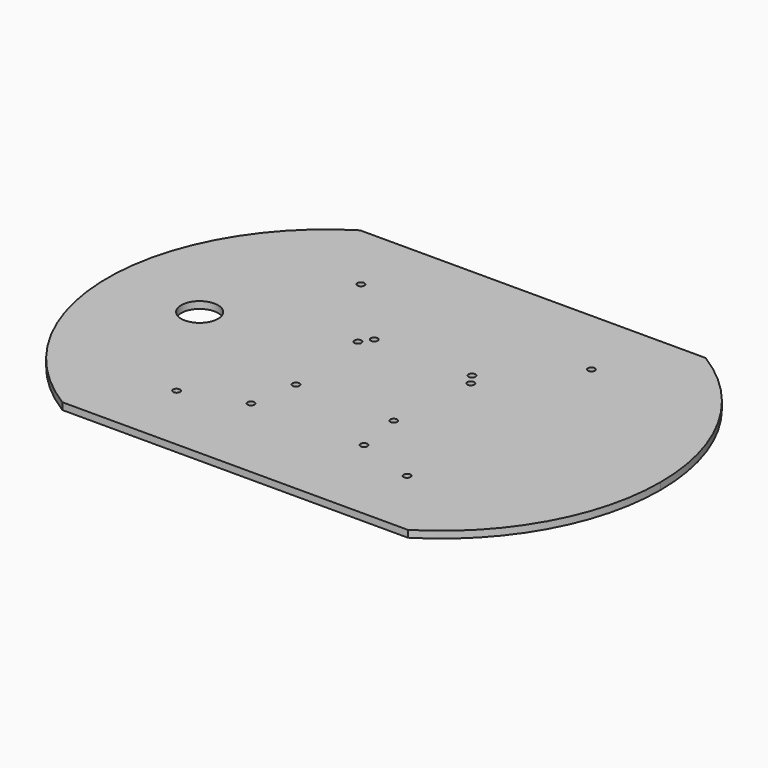
from build123d import *

# Parameters (mm, degrees)
F1_DEPTH = 3
F3_D     = 3
F5_D     = 3
F7_D     = 3
F9_D     = 16


with BuildPart() as f1:
    # F0 (on Top) → F1 (new body)
    with BuildSketch(Plane.XY):
        with BuildLine():
            Line((-25, 80.777472107), (-75, 80.777472107))
            ThreePointArc((-75, 80.777472107), (-120, 0), (-75, -80.777472107))
            Line((-75, -80.777472107), (-25, -80.777472107))
            ThreePointArc((-25, -80.777472107), (-70, 0), (-25, 80.777472107))
        make_face()
        with BuildLine():
            Line((25, 80.777472107), (-25, 80.777472107))
            ThreePointArc((-25, 80.777472107), (-70, 0), (-25, -80.777472107))
            Line((-25, -80.777472107), (25, -80.777472107))
            ThreePointArc((25, -80.777472107), (57.9909633635, -46.2331050223), (70, 0))
            ThreePointArc((70, 0), (57.9909633635, 46.2331050223), (25, 80.777472107))
        make_face()
        with BuildLine():
            Line((75, 80.777472107), (25, 80.777472107))
            ThreePointArc((25, 80.777472107), (57.9909633635, 46.2331050223), (70, 0))
            ThreePointArc((70, 0), (57.9909633635, -46.2331050223), (25, -80.777472107))
            Line((25, -80.777472107), (75, -80.777472107))
            ThreePointArc((75, -80.777472107), (107.9909633635, -46.2331050223), (120, 0))
            ThreePointArc((120, 0), (107.9909633635, 46.2331050223), (75, 80.777472107))
        make_face()
    extrude(amount=F1_DEPTH)

    # F3 (through all)
    with Locations(Plane.XY.offset(3)):
        with Locations((-50, 50), (50, 50), (50, -50), (-50, -50)):
            Hole(F3_D / 2)

    # F5 (through all)
    with Locations(Plane.XY.offset(3)):
        with Locations((-21.2132034356, 21.2132034356), (21.2132034356, 21.2132034356), (21.2132034356, -21.2132034356), (-21.2132034356, -21.2132034356)):
            Hole(F5_D / 2)

    # F7 (through all)
    with Locations(Plane(origin=(0, 0, 0), x_dir=(1, 0, 0), z_dir=(0, 0, -1))):
        with Locations((-24.5, 41.5), (24.5, 41.5), (24.5, -16.5), (-24.5, -16.5)):
            Hole(F7_D / 2)

    # F9 (through all)
    with Locations(Plane.XY.offset(3)):
        with Locations((-80, 0)):
            Hole(F9_D / 2)


solid = f1.part
